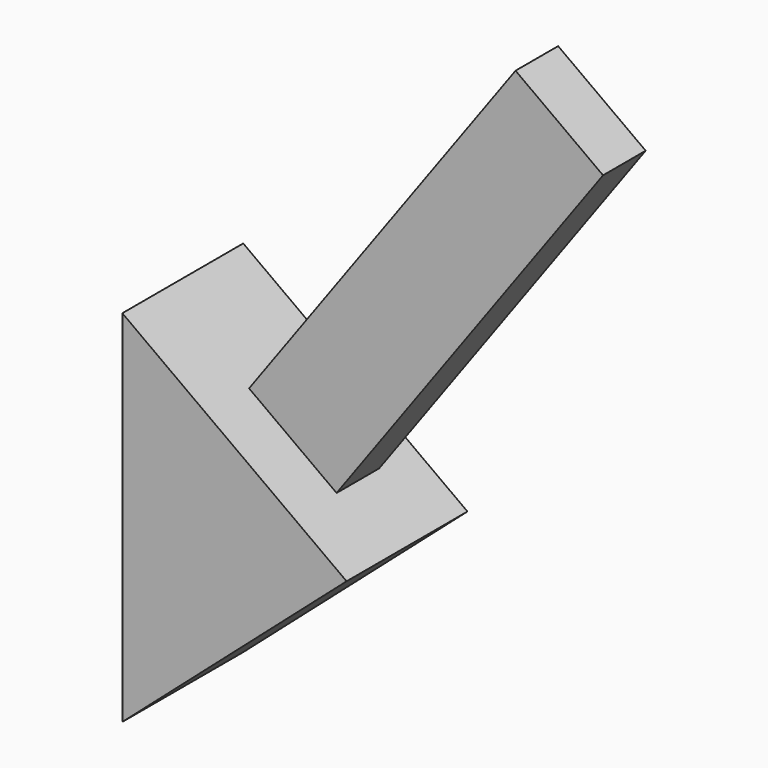
from build123d import *

# Parameters (mm, degrees)
F1_DEPTH = 25.4
F2_W     = 18.190075
F2_H     = 8.952491
F3_DEPTH = 76.152027


with BuildPart() as f1:
    # F0 (on Front) → F1 (new body)
    with BuildSketch(Plane.XZ):
        Polygon((37.693579, 33.070657), (0, 60.488764), (0, 0), align=None)
    extrude(amount=F1_DEPTH)

    # F2 (on face) → F3 (join)
    with BuildSketch(Plane(origin=(28.774519, 0, 39.558333), x_dir=(0.808689, 0, -0.588236), z_dir=(0.588236, 0, 0.808689))):
        with Locations((-9.095038, -11.876475)):
            Rectangle(F2_W, F2_H)
    extrude(amount=F3_DEPTH)


solid = f1.part
